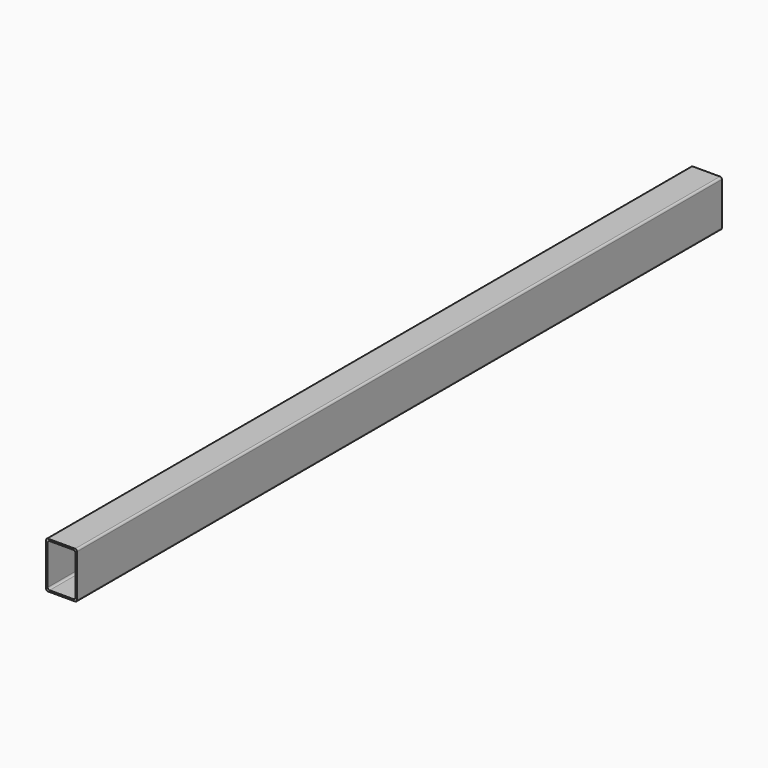
from build123d import *

# Parameters (mm, degrees)
F0_W     = 50.8
F0_H     = 76.2
F0_W_2   = 45.5168
F0_H_2   = 70.9168
F1_DEPTH = 1320.8
F2_R     = 3.175


with BuildPart() as f1:
    # F0 (on Front) → F1 (new body)
    with BuildSketch(Plane.XZ):
        Rectangle(F0_W, F0_H)
        Rectangle(F0_W_2, F0_H_2, mode=Mode.SUBTRACT)
    extrude(amount=F1_DEPTH)

    # F2
    f2_edges = [f1.edges().sort_by_distance(p)[0] for p in [
        (25.4, -660.4, 38.1),
        (-25.4, -660.4, 38.1),
        (25.4, -660.4, -38.1),
        (-22.7584, -660.4, -35.4584),
        (-25.4, -660.4, -38.1),
        (22.7584, -660.4, 35.4584),
        (22.7584, -660.4, -35.4584),
        (-22.7584, -660.4, 35.4584),
    ]]
    fillet(f2_edges, radius=F2_R)


solid = f1.part
